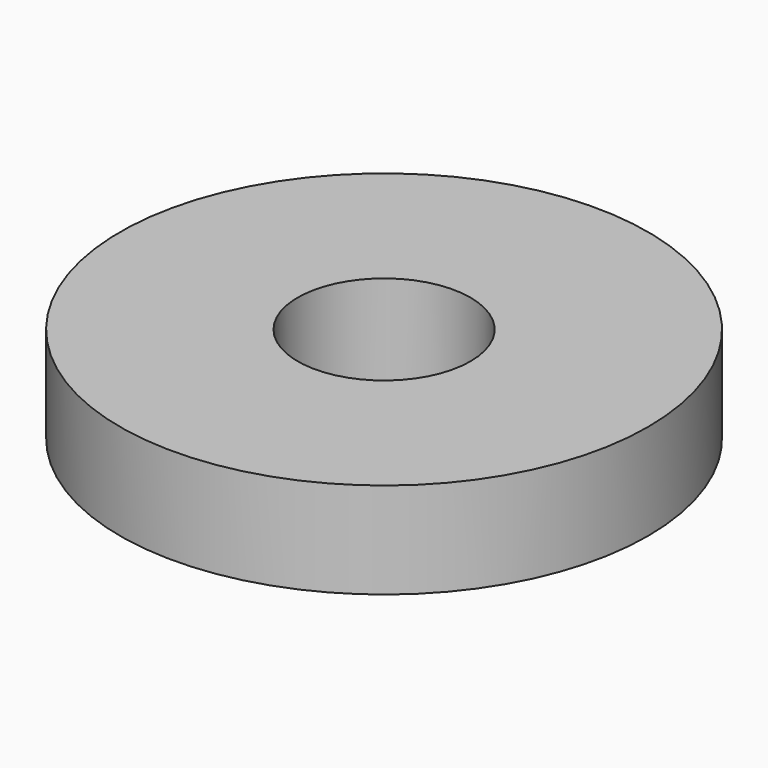
from build123d import *

# Parameters (mm, degrees)
CYLINDER013_R     = 1.8
CYLINDER013_DEPTH = 5
CYLINDER012_R     = 5.5
CYLINDER012_DEPTH = 2


with BuildPart() as obj1:
    # Cylinder013 → Cylinder013 (new body)
    with BuildSketch(Plane(origin=(-29.1, 53.1, 24.6), x_dir=(1, 0, 0), z_dir=(0, 0, 1))):
        Circle(CYLINDER013_R)
    extrude(amount=CYLINDER013_DEPTH)


with BuildPart() as arandela_2mm:
    # Cylinder012 → Cylinder012 (new body)
    with BuildSketch(Plane(origin=(-29.1, 53.1, 25.2), x_dir=(1, 0, 0), z_dir=(0, 0, 1))):
        Circle(CYLINDER012_R)
    extrude(amount=CYLINDER012_DEPTH)

    # Cut006: cut obj1
    add(obj1.part, mode=Mode.SUBTRACT)


with BuildPart() as arandela_2mm_1:
    # Cut006 placement: moved
    add(arandela_2mm.part.moved(Location((0, 0, -5.7))))


solid = arandela_2mm_1.part
